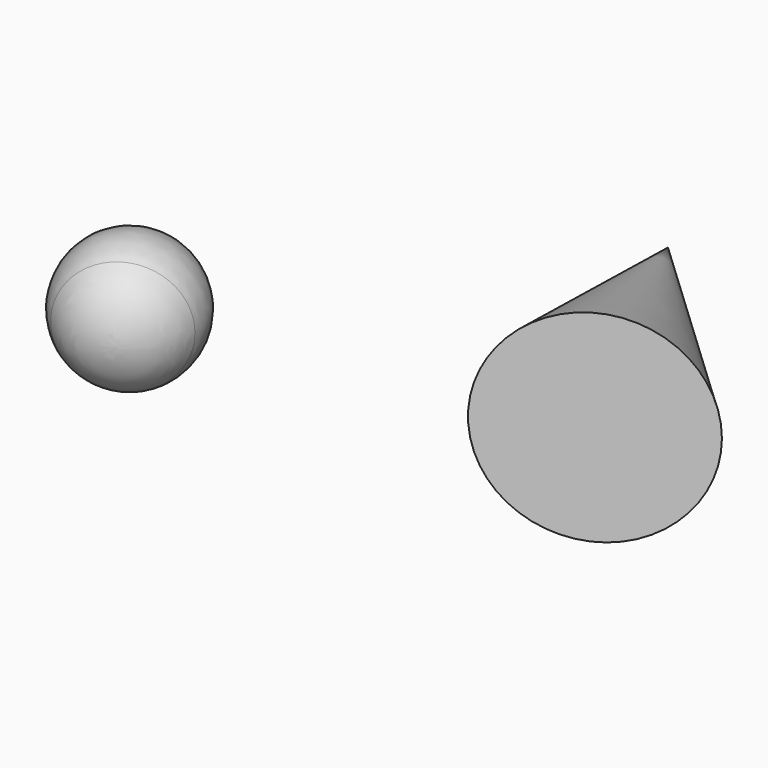
from build123d import *


with BuildPart() as f1:
    # F0 (on Top) → F1 (revolve)
    with BuildSketch(Plane.XY):
        Polygon((53.53215693, 28.5264979752), (-87.5443443656, 164.2836630344), (0, 0), align=None)
    revolve(axis=Axis((-43.7721721828, 82.1418315172, 0), (0.4702803519, -0.8825170767, 0)))


with BuildPart() as f3:
    # F2 (on Top) → F3 (revolve)
    with BuildSketch(Plane.XY):
        with BuildLine():
            ThreePointArc((-227.2040564749, -76.3725355511), (-212.30271211, -62.0857021875), (-206.8199371757, -42.1833693981))
            ThreePointArc((-206.8199371757, -42.1833693981), (-226.0920528336, -8.6190514888), (-264.7947875599, -8.3430019384))
            Line((-264.7947875599, -8.3430019384), (-227.2040564749, -76.3725355511))
        make_face()
    revolve(axis=Axis((-245.9994220174, -42.3577687448, 0), (0.4836413898, -0.8752662487, 0)))


solid = Compound([f1.part, f3.part])
